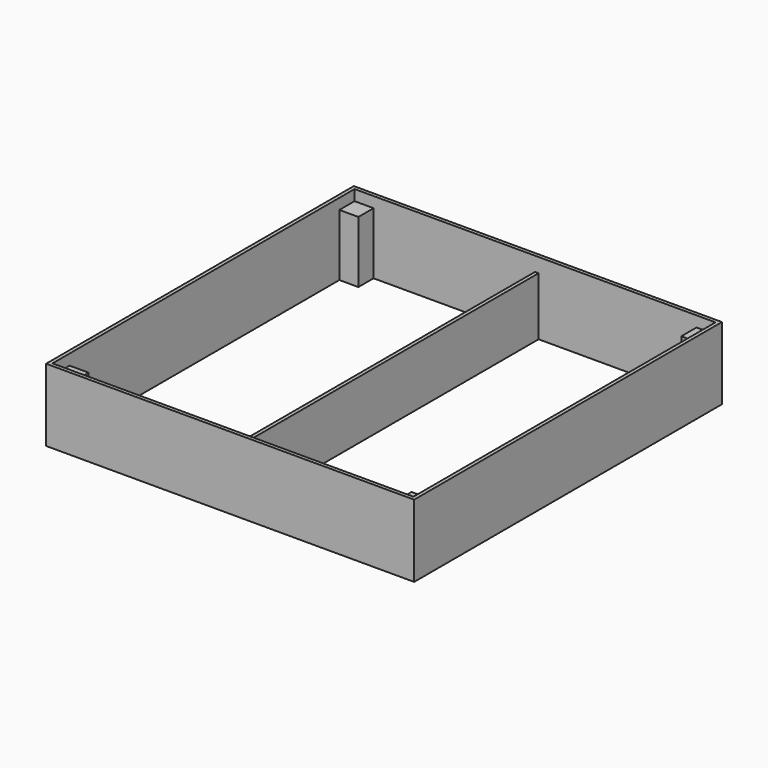
from build123d import *

# Parameters (mm, degrees)
F0_W      = 19.05
F0_H      = 387.35
F1_DEPTH  = 2057.4
F2_W      = 19.05
F2_H      = 387.35
F3_DEPTH  = 1930.4
F4_W      = 19.05
F4_H      = 387.35
F5_DEPTH  = 1930.4
F6_W      = 19.05
F6_H      = 387.35
F7_DEPTH  = 2057.4
F8_W      = 101.6
F8_H      = 101.6
F9_DEPTH  = 330.2
F10_W     = 19.05
F10_H     = 311.15
F11_DEPTH = 2025.65


with BuildPart() as f1:
    # F0 (on Front) → F1 (new body)
    with BuildSketch(Plane.XZ):
        with Locations((9.525, 193.675)):
            Rectangle(F0_W, F0_H)
    extrude(amount=F1_DEPTH)

    # F2 (on face) → F3 (join)
    with BuildSketch(Plane.YZ.offset(19.05)):
        with Locations((-2047.875, 193.675)):
            Rectangle(F2_W, F2_H)
    extrude(amount=F3_DEPTH)

    # F4 (on face) → F5 (join)
    with BuildSketch(Plane.YZ.offset(19.05)):
        with Locations((-9.525, 193.675)):
            Rectangle(F4_W, F4_H)
    extrude(amount=F5_DEPTH)

    # F6 (on Front) → F7 (join)
    with BuildSketch(Plane.XZ):
        with Locations((1958.975, 193.675)):
            Rectangle(F6_W, F6_H)
    extrude(amount=F7_DEPTH)

    # F8 (on Top) → F9 (join)
    with BuildSketch(Plane.XY):
        with Locations((69.85, -69.85)):
            Rectangle(F8_W, F8_H)
        with Locations((1898.65, -69.85)):
            Rectangle(F8_W, F8_H)
        with Locations((1898.65, -1974.85)):
            Rectangle(F8_W, F8_H)
        with Locations((69.85, -1974.85)):
            Rectangle(F8_W, F8_H)
    extrude(amount=F9_DEPTH)

    # F10 (on face) → F11 (join)
    with BuildSketch(Plane.XZ.offset(19.05)):
        with Locations((993.775, 155.575)):
            Rectangle(F10_W, F10_H)
    extrude(amount=F11_DEPTH)


solid = f1.part
